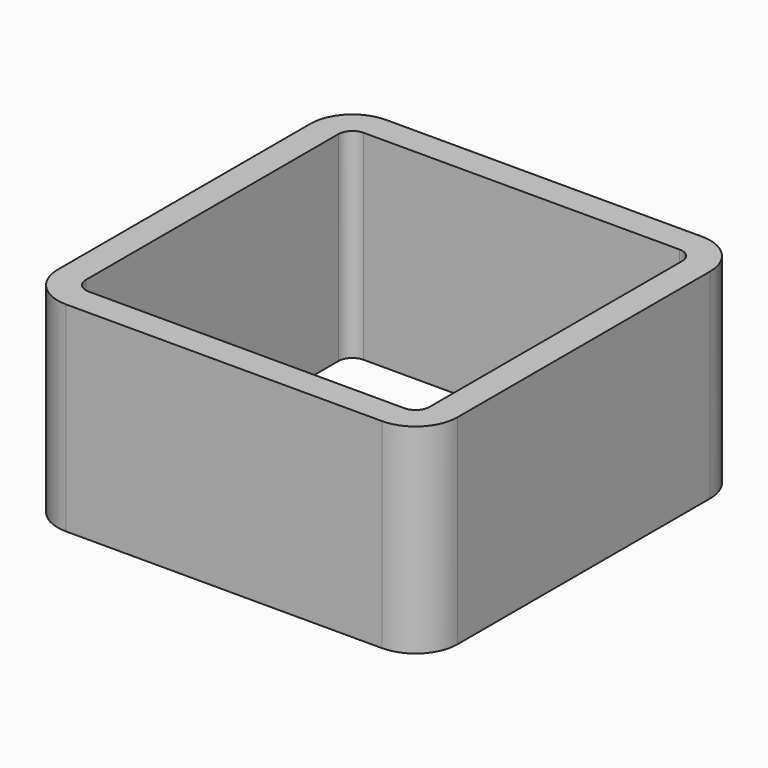
from build123d import *

# Parameters (mm, degrees)
F0_W     = 20
F0_H     = 20
F0_W_2   = 17.2
F0_H_2   = 17.2
F1_DEPTH = 10
F2_R     = 2.1
F3_R     = 2.1
F4_R     = 0.7
F5_R     = 0.7
F6_R     = 0.7
F7_R     = 0.7


with BuildPart() as f1:
    # F0 (on Top) → F1 (new body)
    with BuildSketch(Plane.XY):
        Rectangle(F0_W, F0_H)
        Rectangle(F0_W_2, F0_H_2, mode=Mode.SUBTRACT)
    extrude(amount=F1_DEPTH)

    # F2
    f2_edges = [f1.edges().sort_by_distance(p)[0] for p in [
        (-10, -10, 5),
        (10, -10, 5),
        (10, 10, 5),
    ]]
    fillet(f2_edges, radius=F2_R)

    # F3
    f3_edges = [f1.edges().sort_by_distance(p)[0] for p in [
        (-10, 10, 5),
    ]]
    fillet(f3_edges, radius=F3_R)

    # F4
    f4_edges = [f1.edges().sort_by_distance(p)[0] for p in [
        (-8.6, 8.6, 5),
    ]]
    fillet(f4_edges, radius=F4_R)

    # F5
    f5_edges = [f1.edges().sort_by_distance(p)[0] for p in [
        (-8.6, -8.6, 5),
    ]]
    fillet(f5_edges, radius=F5_R)

    # F6
    f6_edges = [f1.edges().sort_by_distance(p)[0] for p in [
        (8.6, -8.6, 5),
    ]]
    fillet(f6_edges, radius=F6_R)

    # F7
    f7_edges = [f1.edges().sort_by_distance(p)[0] for p in [
        (8.6, 8.6, 5),
    ]]
    fillet(f7_edges, radius=F7_R)


solid = f1.part
